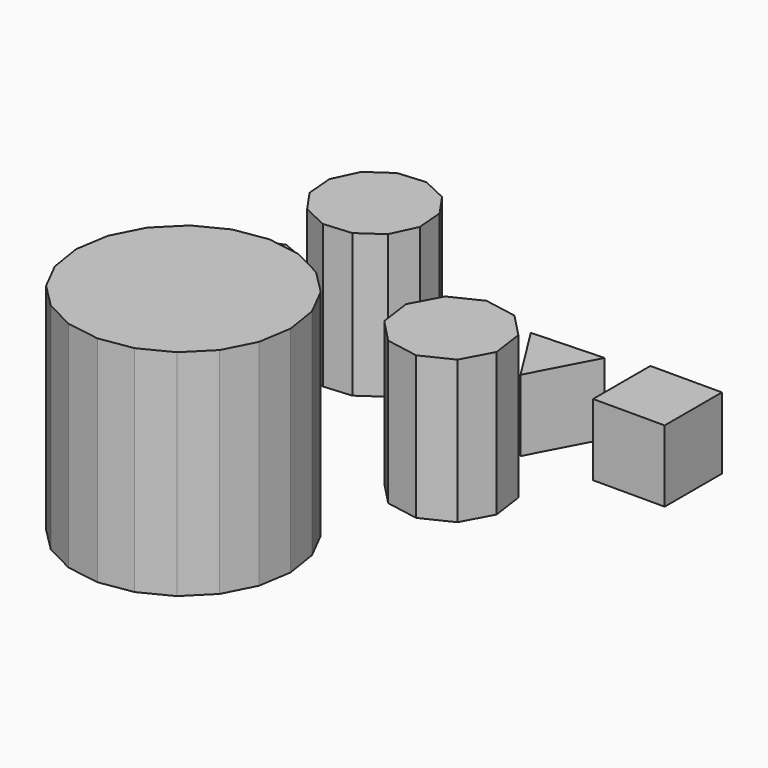
from build123d import *

# Parameters (mm, degrees)
F1_DEPTH  = 25.4
F3_DEPTH  = 50.8
F4_W      = 25.4
F4_H      = 25.4
F5_DEPTH  = 25.4
F7_DEPTH  = 50.8
F9_DEPTH  = 50.8
F11_DEPTH = 76.2


with BuildPart() as f1:
    # F0 (on Top) → F1 (new body)
    with BuildSketch(Plane.XY):
        Polygon((14.375285, 22.544568), (26.217762, 45.014898), (0.836647, 44.035619), align=None)
    extrude(amount=F1_DEPTH)


with BuildPart() as f3:
    # F2 (on Top) → F3 (new body)
    with BuildSketch(Plane.XY):
        Polygon((-44.693661, 21.768669), (-36.590726, 27.388445), (-32.383267, 36.306781), (-33.198668, 46.134016), (-38.818444, 54.236951), (-47.73678, 58.44441), (-57.564015, 57.629009), (-65.66695, 52.009233), (-69.874409, 43.090897), (-69.059008, 33.263662), (-63.439232, 25.160727), (-54.520897, 20.953268), align=None)
    extrude(amount=F3_DEPTH)


with BuildPart() as f5:
    # F4 (on Top) → F5 (new body)
    with BuildSketch(Plane.XY):
        with Locations((51.843213, 36.49176)):
            Rectangle(F4_W, F4_H)
    extrude(amount=F5_DEPTH)


with BuildPart() as f7:
    # F6 (on Top) → F7 (new body)
    with BuildSketch(Plane.XY):
        Polygon((-45.591591, -16.811484), (-41.89872, -7.820144), (-45.645303, 1.148947), (-54.636643, 4.841819), (-63.605735, 1.095235), (-67.298606, -7.896105), (-63.552023, -16.865197), (-54.560683, -20.558068), align=None)
    extrude(amount=F7_DEPTH)


with BuildPart() as f9:
    # F8 (on Top) → F9 (new body)
    with BuildSketch(Plane.XY):
        Polygon((25.564376, -19.333101), (31.10487, -8.944677), (29.481061, 2.716355), (21.313189, 11.195877), (9.721104, 13.255), (-0.867412, 8.107209), (-6.407905, -2.281215), (-4.784096, -13.942247), (3.383776, -22.421769), (14.975861, -24.480892), align=None)
    extrude(amount=F9_DEPTH)


with BuildPart() as f11:
    # F10 (on Top) → F11 (new body)
    with BuildSketch(Plane.XY):
        Polygon((8.248817, -71.758364), (6.398333, -59.982566), (0.999498, -49.354948), (-7.419215, -40.915814), (-18.033722, -35.491246), (-29.805002, -33.612239), (-41.5808, -35.462722), (-52.208419, -40.861558), (-60.647552, -49.280271), (-66.07212, -59.894778), (-67.951127, -71.666058), (-66.100644, -83.441856), (-60.701808, -94.069474), (-52.283096, -102.508608), (-41.668588, -107.933175), (-29.897308, -109.812183), (-18.121511, -107.961699), (-7.493892, -102.562864), (0.945242, -94.144151), (6.369809, -83.529644), align=None)
    extrude(amount=F11_DEPTH)


solid = Compound([f1.part, f3.part, f5.part, f7.part, f9.part, f11.part])
